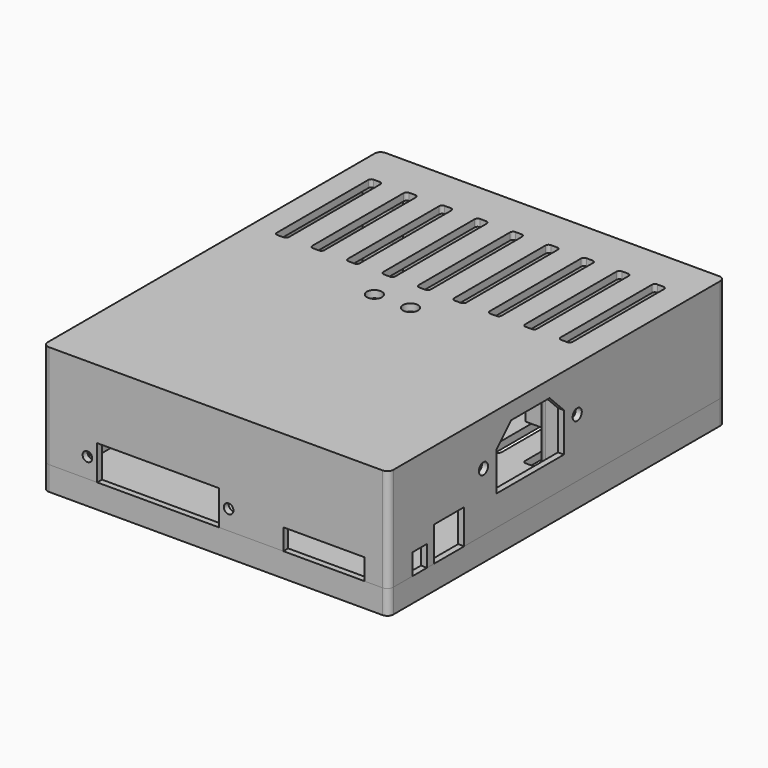
from build123d import *

# Parameters (mm, degrees)
F0_R           = 1.1
F1_DEPTH       = 32
F2_R           = 1.6
F3_DEPTH       = 1.6
F4_R           = 1.6
F5_DEPTH       = 4
F6_R           = 1.6
F7_DEPTH       = 2.4
F8_W           = 27
F8_H           = 7
F8_R           = 1.6
F9_DEPTH       = 25
F10_W          = 6.5
F10_H          = 7
F10_R          = 1.6
F10_W_2        = 26.5
F10_H_2        = 1
F11_DEPTH      = 25
F12_W          = 6
F12_H          = 7
F12_W_2        = 12.5
F12_H_2        = 11.5
F12_R          = 1.9
F13_DEPTH      = 2
F14_W          = 8
F14_H          = 17.5
F14_R          = 1.1
F15_DEPTH      = 12
F17_DEPTH      = 2.4
F18_R          = 2.5
F19_DEPTH      = 2.401
F19_DEPTH_BACK = 40.001


with BuildPart() as f1:
    # F0 (on Top) → F1 (new body)
    with BuildSketch(Plane.XY):
        with BuildLine():
            Line((-2, 136), (-2, 0))
            ThreePointArc((-2, 0), (-1.4142135624, -1.4142135624), (0, -2))
            Line((0, -2), (111, -2))
            ThreePointArc((111, -2), (112.4142135624, -1.4142135624), (113, 0))
            Line((113, 0), (113, 136))
            ThreePointArc((113, 136), (112.4142135624, 137.4142135624), (111, 138))
            Line((111, 138), (0, 138))
            ThreePointArc((0, 138), (-1.4142135624, 137.4142135624), (-2, 136))
        make_face()
        with Locations((4.5, 4.5)):
            Circle(F0_R, mode=Mode.SUBTRACT)
        with Locations((106.5, 4.5)):
            Circle(F0_R, mode=Mode.SUBTRACT)
        with Locations((4.5, 74.5)):
            Circle(F0_R, mode=Mode.SUBTRACT)
        with Locations((4.5, 131.5)):
            Circle(F0_R, mode=Mode.SUBTRACT)
        with BuildLine():
            Line((103.5, 0), (7.5, 0))
            Line((7.5, 0), (7.5, 4.5))
            ThreePointArc((7.5, 4.5), (6.6213203436, 6.6213203436), (4.5, 7.5))
            Line((4.5, 7.5), (0, 7.5))
            Line((0, 7.5), (0, 71.5))
            Line((0, 71.5), (4.5, 71.5))
            ThreePointArc((4.5, 71.5), (7.5, 74.5), (4.5, 77.5))
            Line((4.5, 77.5), (0, 77.5))
            Line((0, 77.5), (0, 128.5))
            Line((0, 128.5), (4.5, 128.5))
            ThreePointArc((4.5, 128.5), (6.6213203436, 129.3786796564), (7.5, 131.5))
            Line((7.5, 131.5), (7.5, 136))
            Line((7.5, 136), (103.5, 136))
            Line((103.5, 136), (103.5, 131.5))
            ThreePointArc((103.5, 131.5), (104.3786796564, 129.3786796564), (106.5, 128.5))
            Line((106.5, 128.5), (111, 128.5))
            Line((111, 128.5), (111, 77.5))
            Line((111, 77.5), (106.5, 77.5))
            ThreePointArc((106.5, 77.5), (103.5, 74.5), (106.5, 71.5))
            Line((106.5, 71.5), (111, 71.5))
            Line((111, 71.5), (111, 7.5))
            Line((111, 7.5), (106.5, 7.5))
            ThreePointArc((106.5, 7.5), (104.3786796564, 6.6213203436), (103.5, 4.5))
            Line((103.5, 4.5), (103.5, 0))
        make_face(mode=Mode.SUBTRACT)
        with Locations((106.5, 74.5)):
            Circle(F0_R, mode=Mode.SUBTRACT)
        with Locations((106.5, 131.5)):
            Circle(F0_R, mode=Mode.SUBTRACT)
    extrude(amount=F1_DEPTH)

    # F8 (on face) → F9 (cut)
    with BuildSketch(Plane.XZ.offset(2)):
        with Locations((91.5, 3.5)):
            Rectangle(F8_W, F8_H)
        Polygon((56.55, 11.5), (16.05, 11.5), (16.05, 1.5), (16.05, 0), (56.55, 0), (56.55, 1.5), align=None)
        with Locations((59.8, 6.5)):
            Circle(F8_R)
        with Locations((12.8, 6.5)):
            Circle(F8_R)
    extrude(amount=-F9_DEPTH, mode=Mode.SUBTRACT)

    # F10 (on face) → F11 (cut)
    with BuildSketch(Plane(origin=(-2, 0, 0), x_dir=(0, -1, 0), z_dir=(-1, 0, 0))):
        with Locations((-10.75, 3.5)):
            Rectangle(F10_W, F10_H)
        Polygon((-60.25, 11.5), (-62.25, 11.5), (-62.25, 2), (-60.25, 2), (-60.25, 10.5), align=None)
        Polygon((-23.75, 2), (-21.75, 2), (-21.75, 11.5), (-23.75, 11.5), (-23.75, 10.5), align=None)
        with Locations((-18.5, 6.5)):
            Circle(F10_R)
        with Locations((-65.5, 6.5)):
            Circle(F10_R)
        with Locations((-42, 11)):
            Rectangle(F10_W_2, F10_H_2)
    extrude(amount=-F11_DEPTH, mode=Mode.SUBTRACT)

    # F12 (on face) → F13 (cut)
    with BuildSketch(Plane.YZ.offset(113)):
        with Locations((11, 3.5)):
            Rectangle(F12_W, F12_H)
        with Locations((23.25, 5.75)):
            Rectangle(F12_W_2, F12_H_2)
        Polygon((65, 29), (49, 29), (43, 23), (43, 10), (71, 10), (71, 23), align=None)
        with Locations((76.5, 19.5)):
            Circle(F12_R)
        with Locations((37.5, 19.5)):
            Circle(F12_R)
    extrude(amount=-F13_DEPTH, mode=Mode.SUBTRACT)

    # F14 (on face) → F15 (join)
    with BuildSketch(Plane(origin=(111, 0, 0), x_dir=(0, -1, 0), z_dir=(-1, 0, 0))):
        with Locations((-37.5, 23.25)):
            Rectangle(F14_W, F14_H)
        with Locations((-37.5, 19.5)):
            Circle(F14_R, mode=Mode.SUBTRACT)
        with Locations((-76.5, 23.25)):
            Rectangle(F14_W, F14_H)
        with Locations((-76.5, 19.5)):
            Circle(F14_R, mode=Mode.SUBTRACT)
    extrude(amount=F15_DEPTH)

    # F16 (on face) → F17 (join)
    with BuildSketch(Plane.XY.offset(32)):
        with BuildLine():
            Line((111, 138), (0, 138))
            ThreePointArc((0, 138), (-1.4142135624, 137.4142135624), (-2, 136))
            Line((-2, 136), (-2, 0))
            ThreePointArc((-2, 0), (-1.4142135624, -1.4142135624), (0, -2))
            Line((0, -2), (111, -2))
            ThreePointArc((111, -2), (112.4142135624, -1.4142135624), (113, 0))
            Line((113, 0), (113, 136))
            ThreePointArc((113, 136), (112.4142135624, 137.4142135624), (111, 138))
        make_face()
    extrude(amount=F17_DEPTH)


with BuildPart() as f3:
    # F2 (on face) → F3 (new body)
    with BuildSketch(Plane(origin=(0, 0, 0), x_dir=(1, 0, 0), z_dir=(0, 0, -1))):
        with BuildLine():
            Line((111, 2), (0, 2))
            ThreePointArc((0, 2), (-1.4142135624, 1.4142135624), (-2, 0))
            Line((-2, 0), (-2, -136))
            ThreePointArc((-2, -136), (-1.4142135624, -137.4142135624), (0, -138))
            Line((0, -138), (111, -138))
            ThreePointArc((111, -138), (112.4142135624, -137.4142135624), (113, -136))
            Line((113, -136), (113, 0))
            ThreePointArc((113, 0), (112.4142135624, 1.4142135624), (111, 2))
        make_face()
        with Locations((4.5, -131.5)):
            Circle(F2_R, mode=Mode.SUBTRACT)
        with Locations((106.5, -131.5)):
            Circle(F2_R, mode=Mode.SUBTRACT)
        with BuildLine():
            Line((103.5, -136), (7.5, -136))
            Line((7.5, -136), (7.5, -131.5))
            ThreePointArc((7.5, -131.5), (6.6213203436, -129.3786796564), (4.5, -128.5))
            Line((4.5, -128.5), (0, -128.5))
            Line((0, -128.5), (0, -77.5))
            Line((0, -77.5), (0, -71.5))
            Line((0, -71.5), (0, -7.5))
            Line((0, -7.5), (0, 0))
            Line((0, 0), (7.5, 0))
            Line((7.5, 0), (103.5, 0))
            Line((103.5, 0), (111, 0))
            Line((111, 0), (111, -7.5))
            Line((111, -7.5), (111, -71.5))
            Line((111, -71.5), (111, -77.5))
            Line((111, -77.5), (111, -128.5))
            Line((111, -128.5), (106.5, -128.5))
            ThreePointArc((106.5, -128.5), (104.3786796564, -129.3786796564), (103.5, -131.5))
            Line((103.5, -131.5), (103.5, -136))
        make_face(mode=Mode.SUBTRACT)
    extrude(amount=F3_DEPTH)

    # F4 (on face) → F5 (join)
    with BuildSketch(Plane(origin=(0, 0, -1.6), x_dir=(1, 0, 0), z_dir=(0, 0, -1))):
        with BuildLine():
            ThreePointArc((-2, -136), (-1.4142135624, -137.4142135624), (0, -138))
            Line((0, -138), (111, -138))
            ThreePointArc((111, -138), (112.4142135624, -137.4142135624), (113, -136))
            Line((113, -136), (113, 0))
            ThreePointArc((113, 0), (112.4142135624, 1.4142135624), (111, 2))
            Line((111, 2), (0, 2))
            ThreePointArc((0, 2), (-1.4142135624, 1.4142135624), (-2, 0))
            Line((-2, 0), (-2, -136))
        make_face()
        with Locations((4.5, -131.5)):
            Circle(F4_R, mode=Mode.SUBTRACT)
        with Locations((4.5, -74.5)):
            Circle(F4_R, mode=Mode.SUBTRACT)
        with Locations((106.5, -131.5)):
            Circle(F4_R, mode=Mode.SUBTRACT)
        with Locations((106.5, -74.5)):
            Circle(F4_R, mode=Mode.SUBTRACT)
        with Locations((4.5, -4.5)):
            Circle(F4_R, mode=Mode.SUBTRACT)
        with BuildLine():
            Line((103.5, -136), (7.5, -136))
            Line((7.5, -136), (7.5, -131.5))
            ThreePointArc((7.5, -131.5), (6.6213203436, -129.3786796564), (4.5, -128.5))
            Line((4.5, -128.5), (0, -128.5))
            Line((0, -128.5), (0, -77.5))
            Line((0, -77.5), (4.5, -77.5))
            ThreePointArc((4.5, -77.5), (7.5, -74.5), (4.5, -71.5))
            Line((4.5, -71.5), (0, -71.5))
            Line((0, -71.5), (0, -7.5))
            Line((0, -7.5), (4.5, -7.5))
            ThreePointArc((4.5, -7.5), (6.6213203436, -6.6213203436), (7.5, -4.5))
            Line((7.5, -4.5), (7.5, 0))
            Line((7.5, 0), (103.5, 0))
            Line((103.5, 0), (103.5, -4.5))
            ThreePointArc((103.5, -4.5), (104.3786796564, -6.6213203436), (106.5, -7.5))
            Line((106.5, -7.5), (111, -7.5))
            Line((111, -7.5), (111, -71.5))
            Line((111, -71.5), (106.5, -71.5))
            ThreePointArc((106.5, -71.5), (103.5, -74.5), (106.5, -77.5))
            Line((106.5, -77.5), (111, -77.5))
            Line((111, -77.5), (111, -128.5))
            Line((111, -128.5), (106.5, -128.5))
            ThreePointArc((106.5, -128.5), (104.3786796564, -129.3786796564), (103.5, -131.5))
            Line((103.5, -131.5), (103.5, -136))
        make_face(mode=Mode.SUBTRACT)
        with Locations((106.5, -4.5)):
            Circle(F4_R, mode=Mode.SUBTRACT)
    extrude(amount=F5_DEPTH)

    # F6 (on face) → F7 (join)
    with BuildSketch(Plane(origin=(0, 0, -5.6), x_dir=(1, 0, 0), z_dir=(0, 0, -1))):
        with BuildLine():
            Line((111, 2), (0, 2))
            ThreePointArc((0, 2), (-1.4142135624, 1.4142135624), (-2, 0))
            Line((-2, 0), (-2, -136))
            ThreePointArc((-2, -136), (-1.4142135624, -137.4142135624), (0, -138))
            Line((0, -138), (111, -138))
            ThreePointArc((111, -138), (112.4142135624, -137.4142135624), (113, -136))
            Line((113, -136), (113, 0))
            ThreePointArc((113, 0), (112.4142135624, 1.4142135624), (111, 2))
        make_face()
        with Locations((4.5, -131.5)):
            Circle(F6_R, mode=Mode.SUBTRACT)
        with Locations((4.5, -74.5)):
            Circle(F6_R, mode=Mode.SUBTRACT)
        with Locations((106.5, -131.5)):
            Circle(F6_R, mode=Mode.SUBTRACT)
        with Locations((106.5, -74.5)):
            Circle(F6_R, mode=Mode.SUBTRACT)
        with Locations((4.5, -4.5)):
            Circle(F6_R, mode=Mode.SUBTRACT)
        with Locations((106.5, -4.5)):
            Circle(F6_R, mode=Mode.SUBTRACT)
    extrude(amount=F7_DEPTH)


with BuildPart() as f19_tool:
    # F18 (on face) → F19 (new body, two sides)
    with BuildSketch(Plane(origin=(0, 0, 32), x_dir=(1, 0, 0), z_dir=(0, 0, -1))) as f19_sk:
        with Locations((47.5, -74)):
            Circle(F18_R)
        with Locations((59.5, -74)):
            Circle(F18_R)
        with BuildLine():
            ThreePointArc((5.9977441942, -123.3369877338), (6.290637413, -124.044094515), (6.9977441942, -124.3369877338))
            Line((6.9977441942, -124.3369877338), (8.9977441942, -124.3369877338))
            ThreePointArc((8.9977441942, -124.3369877338), (9.7048509754, -124.044094515), (9.9977441942, -123.3369877338))
            Line((9.9977441942, -123.3369877338), (9.9977441942, -85.3369877338))
            ThreePointArc((9.9977441942, -85.3369877338), (9.7048509754, -84.6298809527), (8.9977441942, -84.3369877338))
            Line((8.9977441942, -84.3369877338), (6.9977441942, -84.3369877338))
            ThreePointArc((6.9977441942, -84.3369877338), (6.290637413, -84.6298809527), (5.9977441942, -85.3369877338))
            Line((5.9977441942, -85.3369877338), (5.9977441942, -123.3369877338))
        make_face()
        with BuildLine():
            ThreePointArc((20.7977441942, -124.3369877338), (21.5048509754, -124.044094515), (21.7977441942, -123.3369877338))
            Line((21.7977441942, -123.3369877338), (21.7977441942, -85.3369877338))
            ThreePointArc((21.7977441942, -85.3369877338), (21.5048509754, -84.6298809527), (20.7977441942, -84.3369877338))
            Line((20.7977441942, -84.3369877338), (18.7977441942, -84.3369877338))
            ThreePointArc((18.7977441942, -84.3369877338), (18.090637413, -84.6298809527), (17.7977441942, -85.3369877338))
            Line((17.7977441942, -85.3369877338), (17.7977441942, -123.3369877338))
            ThreePointArc((17.7977441942, -123.3369877338), (18.090637413, -124.044094515), (18.7977441942, -124.3369877338))
            Line((18.7977441942, -124.3369877338), (20.7977441942, -124.3369877338))
        make_face()
        with BuildLine():
            ThreePointArc((32.5977441942, -124.3369877338), (33.3048509754, -124.044094515), (33.5977441942, -123.3369877338))
            Line((33.5977441942, -123.3369877338), (33.5977441942, -85.3369877338))
            ThreePointArc((33.5977441942, -85.3369877338), (33.3048509754, -84.6298809527), (32.5977441942, -84.3369877338))
            Line((32.5977441942, -84.3369877338), (30.5977441942, -84.3369877338))
            ThreePointArc((30.5977441942, -84.3369877338), (29.890637413, -84.6298809527), (29.5977441942, -85.3369877338))
            Line((29.5977441942, -85.3369877338), (29.5977441942, -123.3369877338))
            ThreePointArc((29.5977441942, -123.3369877338), (29.890637413, -124.044094515), (30.5977441942, -124.3369877338))
            Line((30.5977441942, -124.3369877338), (32.5977441942, -124.3369877338))
        make_face()
        with BuildLine():
            ThreePointArc((44.3977441942, -124.3369877338), (45.1048509754, -124.044094515), (45.3977441942, -123.3369877338))
            Line((45.3977441942, -123.3369877338), (45.3977441942, -85.3369877338))
            ThreePointArc((45.3977441942, -85.3369877338), (45.1048509754, -84.6298809527), (44.3977441942, -84.3369877338))
            Line((44.3977441942, -84.3369877338), (42.3977441942, -84.3369877338))
            ThreePointArc((42.3977441942, -84.3369877338), (41.690637413, -84.6298809527), (41.3977441942, -85.3369877338))
            Line((41.3977441942, -85.3369877338), (41.3977441942, -123.3369877338))
            ThreePointArc((41.3977441942, -123.3369877338), (41.690637413, -124.044094515), (42.3977441942, -124.3369877338))
            Line((42.3977441942, -124.3369877338), (44.3977441942, -124.3369877338))
        make_face()
        with BuildLine():
            ThreePointArc((56.1977441942, -124.3369877338), (56.9048509754, -124.044094515), (57.1977441942, -123.3369877338))
            Line((57.1977441942, -123.3369877338), (57.1977441942, -85.3369877338))
            ThreePointArc((57.1977441942, -85.3369877338), (56.9048509754, -84.6298809527), (56.1977441942, -84.3369877338))
            Line((56.1977441942, -84.3369877338), (54.1977441942, -84.3369877338))
            ThreePointArc((54.1977441942, -84.3369877338), (53.490637413, -84.6298809527), (53.1977441942, -85.3369877338))
            Line((53.1977441942, -85.3369877338), (53.1977441942, -123.3369877338))
            ThreePointArc((53.1977441942, -123.3369877338), (53.490637413, -124.044094515), (54.1977441942, -124.3369877338))
            Line((54.1977441942, -124.3369877338), (56.1977441942, -124.3369877338))
        make_face()
        with BuildLine():
            ThreePointArc((67.9977441942, -124.3369877338), (68.7048509754, -124.044094515), (68.9977441942, -123.3369877338))
            Line((68.9977441942, -123.3369877338), (68.9977441942, -85.3369877338))
            ThreePointArc((68.9977441942, -85.3369877338), (68.7048509754, -84.6298809527), (67.9977441942, -84.3369877338))
            Line((67.9977441942, -84.3369877338), (65.9977441942, -84.3369877338))
            ThreePointArc((65.9977441942, -84.3369877338), (65.290637413, -84.6298809527), (64.9977441942, -85.3369877338))
            Line((64.9977441942, -85.3369877338), (64.9977441942, -123.3369877338))
            ThreePointArc((64.9977441942, -123.3369877338), (65.290637413, -124.044094515), (65.9977441942, -124.3369877338))
            Line((65.9977441942, -124.3369877338), (67.9977441942, -124.3369877338))
        make_face()
        with BuildLine():
            ThreePointArc((79.7977441942, -124.3369877338), (80.5048509754, -124.044094515), (80.7977441942, -123.3369877338))
            Line((80.7977441942, -123.3369877338), (80.7977441942, -85.3369877338))
            ThreePointArc((80.7977441942, -85.3369877338), (80.5048509754, -84.6298809527), (79.7977441942, -84.3369877338))
            Line((79.7977441942, -84.3369877338), (77.7977441942, -84.3369877338))
            ThreePointArc((77.7977441942, -84.3369877338), (77.090637413, -84.6298809527), (76.7977441942, -85.3369877338))
            Line((76.7977441942, -85.3369877338), (76.7977441942, -123.3369877338))
            ThreePointArc((76.7977441942, -123.3369877338), (77.090637413, -124.044094515), (77.7977441942, -124.3369877338))
            Line((77.7977441942, -124.3369877338), (79.7977441942, -124.3369877338))
        make_face()
        with BuildLine():
            ThreePointArc((91.5977441942, -124.3369877338), (92.3048509754, -124.044094515), (92.5977441942, -123.3369877338))
            Line((92.5977441942, -123.3369877338), (92.5977441942, -85.3369877338))
            ThreePointArc((92.5977441942, -85.3369877338), (92.3048509754, -84.6298809527), (91.5977441942, -84.3369877338))
            Line((91.5977441942, -84.3369877338), (89.5977441942, -84.3369877338))
            ThreePointArc((89.5977441942, -84.3369877338), (88.890637413, -84.6298809527), (88.5977441942, -85.3369877338))
            Line((88.5977441942, -85.3369877338), (88.5977441942, -123.3369877338))
            ThreePointArc((88.5977441942, -123.3369877338), (88.890637413, -124.044094515), (89.5977441942, -124.3369877338))
            Line((89.5977441942, -124.3369877338), (91.5977441942, -124.3369877338))
        make_face()
        with BuildLine():
            ThreePointArc((103.3977441942, -124.3369877338), (104.1048509754, -124.044094515), (104.3977441942, -123.3369877338))
            Line((104.3977441942, -123.3369877338), (104.3977441942, -85.3369877338))
            ThreePointArc((104.3977441942, -85.3369877338), (104.1048509754, -84.6298809527), (103.3977441942, -84.3369877338))
            Line((103.3977441942, -84.3369877338), (101.3977441942, -84.3369877338))
            ThreePointArc((101.3977441942, -84.3369877338), (100.690637413, -84.6298809527), (100.3977441942, -85.3369877338))
            Line((100.3977441942, -85.3369877338), (100.3977441942, -123.3369877338))
            ThreePointArc((100.3977441942, -123.3369877338), (100.690637413, -124.044094515), (101.3977441942, -124.3369877338))
            Line((101.3977441942, -124.3369877338), (103.3977441942, -124.3369877338))
        make_face()
    extrude(amount=-F19_DEPTH)
    extrude(f19_sk.sketch, amount=F19_DEPTH_BACK)


with BuildPart() as f1_1:
    add(f1.part)

    # F19: cut by f19_tool
    add(f19_tool.part, mode=Mode.SUBTRACT)


with BuildPart() as f3_1:
    add(f3.part)

    # F19: cut by f19_tool
    add(f19_tool.part, mode=Mode.SUBTRACT)


solid = Compound([f1_1.part, f3_1.part])
